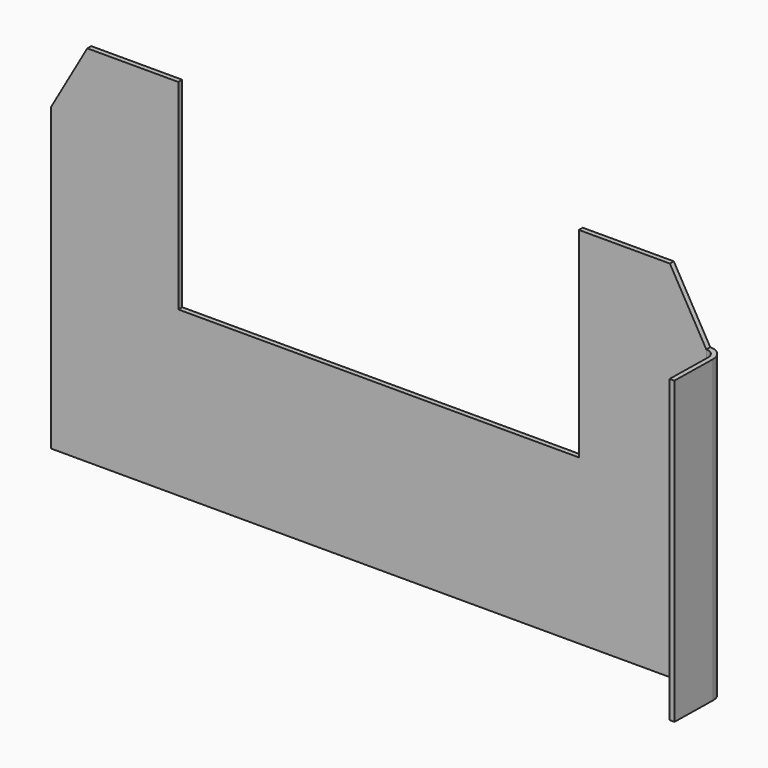
from build123d import *

# Parameters (mm, degrees)
F1_DEPTH = 3.4163
F3_DEPTH = 209.55


with BuildPart() as f1:
    # F0 (on Front) → F1 (new body)
    with BuildSketch(Plane.XZ):
        Polygon((-228.6, 57.15), (-228.6, -152.4), (228.6, -152.4), (228.6, 57.15), (203.2, 101.6), (139.7, 101.6), (139.7, -38.1), (-139.7, -38.1), (-139.7, 101.6), (-203.2, 101.6), align=None)
    extrude(amount=F1_DEPTH)

    # F2 (on face) → F3 (join, through all)
    with BuildSketch(Plane(origin=(0, 0, -152.4), x_dir=(1, 0, 0), z_dir=(0, 0, -1))):
        with BuildLine():
            ThreePointArc((235.3327870369, 10.274737142), (233.4054287352, 5.4328472215), (228.6, 3.4163))
            Line((228.6, 3.4163), (228.6, 0))
            ThreePointArc((228.6, 0), (235.799091584, 3.0210224584), (238.6864986592, 10.274737142))
            Line((238.6864986592, 10.274737142), (238.0794327982, 43.1042481664))
            Line((238.0794327982, 43.1042481664), (234.7268675333, 43.0422543122))
            Line((234.7268675333, 43.0422543122), (235.3327870369, 10.274737142))
        make_face()
    extrude(amount=-F3_DEPTH)


solid = f1.part
